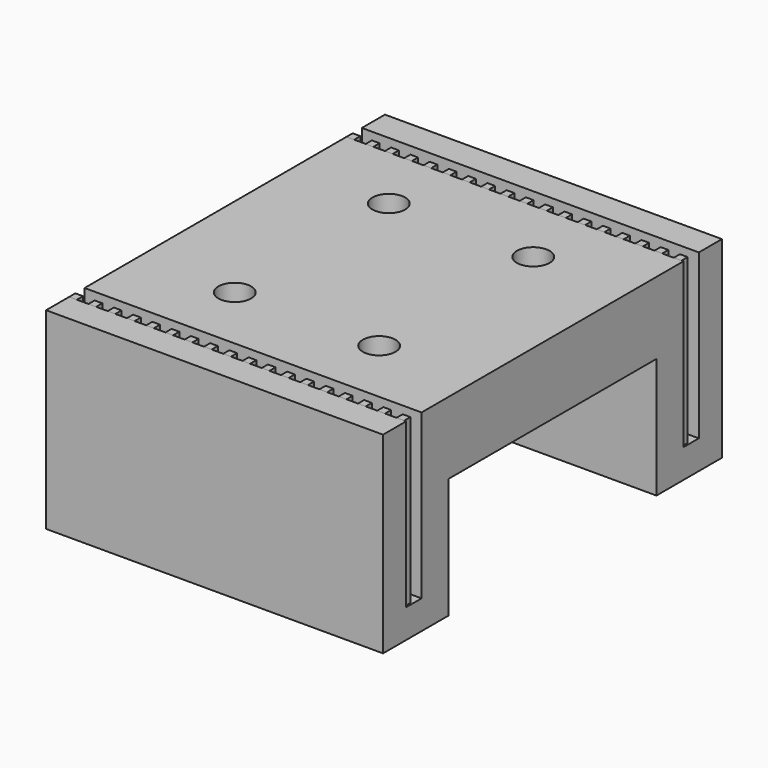
from build123d import *

# Parameters (mm, degrees)
SKETCH_W         = 35
SKETCH_H         = 44
EXTRUDE_DEPTH    = 20
SKETCH001_W      = 35
SKETCH001_H      = 27
POCKET_DEPTH     = 12.5
SKETCH002_R      = 1.7
POCKET001_DEPTH  = 20.001
SKETCH003_W      = 35
SKETCH003_H      = 2
POCKET002_DEPTH  = 17
SKETCH004_W      = 0.8
SKETCH004_H      = 0.8
EXTRUDE001_DEPTH = 17
ARRAY_X_COUNT    = 18
ARRAY_X_PITCH    = 2
ARRAY_Y_COUNT    = 2
ARRAY_Y_PITCH    = 36


with BuildPart() as pocket002:
    # Sketch → Extrude (new body)
    with BuildSketch(Plane.XY):
        with Locations((17.5, 22)):
            Rectangle(SKETCH_W, SKETCH_H)
    extrude(amount=EXTRUDE_DEPTH)

    # Sketch001 → Pocket (cut)
    with BuildSketch(Plane(origin=(0, 0, 0), x_dir=(1, 0, 0), z_dir=(0, 0, -1))):
        with Locations((17.5, -22)):
            Rectangle(SKETCH001_W, SKETCH001_H)
    extrude(amount=-POCKET_DEPTH, mode=Mode.SUBTRACT)

    # Sketch002 → Pocket001 (cut, through all)
    with BuildSketch(Plane.XY.offset(20)):
        with Locations((10, 32)):
            Circle(SKETCH002_R)
        with Locations((25, 32)):
            Circle(SKETCH002_R)
        with Locations((10, 12)):
            Circle(SKETCH002_R)
        with Locations((25, 12)):
            Circle(SKETCH002_R)
    extrude(amount=-POCKET001_DEPTH, mode=Mode.SUBTRACT)

    # Sketch003 → Pocket002 (cut)
    with BuildSketch(Plane.XY.offset(20)):
        with Locations((17.5, 40)):
            Rectangle(SKETCH003_W, SKETCH003_H)
        with Locations((17.5, 4)):
            Rectangle(SKETCH003_W, SKETCH003_H)
    extrude(amount=-POCKET002_DEPTH, mode=Mode.SUBTRACT)


with BuildPart() as array:
    # Sketch004 → Extrude001 (new body)
    with BuildSketch(Plane.XY.offset(3)):
        with Locations((0.4, 3.4)):
            Rectangle(SKETCH004_W, SKETCH004_H)
    extrude(amount=EXTRUDE001_DEPTH)

    # Array X: Array ×18


with BuildPart() as array_1:
    add(array.part)
    with Locations(*[(i * ARRAY_X_PITCH, 0, 0) for i in range(1, ARRAY_X_COUNT)]):
        add(array.part)

    # Array Y: Array ×2


with BuildPart() as array_2:
    add(array_1.part)
    with Locations(*[(0, i * ARRAY_Y_PITCH, 0) for i in range(1, ARRAY_Y_COUNT)]):
        add(array_1.part)


solid = Compound([pocket002.part, array_2.part])
